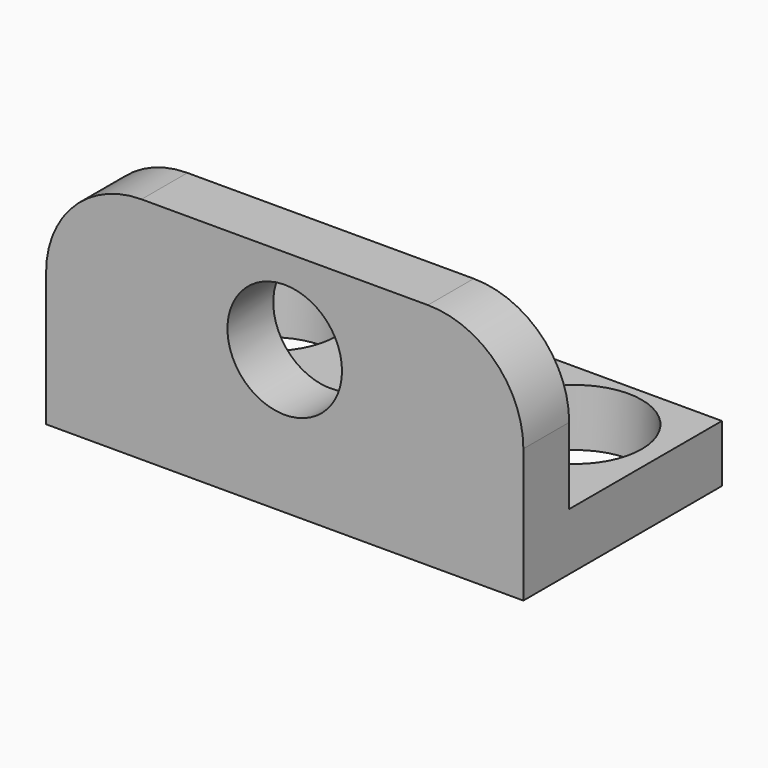
from build123d import *

# Parameters (mm, degrees)
F0_W     = 25
F0_H     = 10
F0_R     = 3.5
F1_DEPTH = 3
F2_R     = 3
F3_DEPTH = 3


with BuildPart() as f1:
    # F0 (on Top) → F1 (new body)
    with BuildSketch(Plane.XY):
        with Locations((12.5, 5)):
            Rectangle(F0_W, F0_H)
        with Locations((4.5, 6)):
            Circle(F0_R, mode=Mode.SUBTRACT)
        with Locations((20.5, 6)):
            Circle(F0_R, mode=Mode.SUBTRACT)
    extrude(amount=F1_DEPTH)

    # F2 (on face) → F3 (join)
    with BuildSketch(Plane.XZ):
        with BuildLine():
            Line((0, 7), (0, 0))
            Line((0, 0), (25, 0))
            Line((25, 0), (25, 7))
            ThreePointArc((25, 7), (23.535534, 10.535534), (20, 12))
            Line((20, 12), (5, 12))
            ThreePointArc((5, 12), (1.464466, 10.535534), (0, 7))
        make_face()
        with Locations((12.5, 7.5)):
            Circle(F2_R, mode=Mode.SUBTRACT)
    extrude(amount=F3_DEPTH)


solid = f1.part
